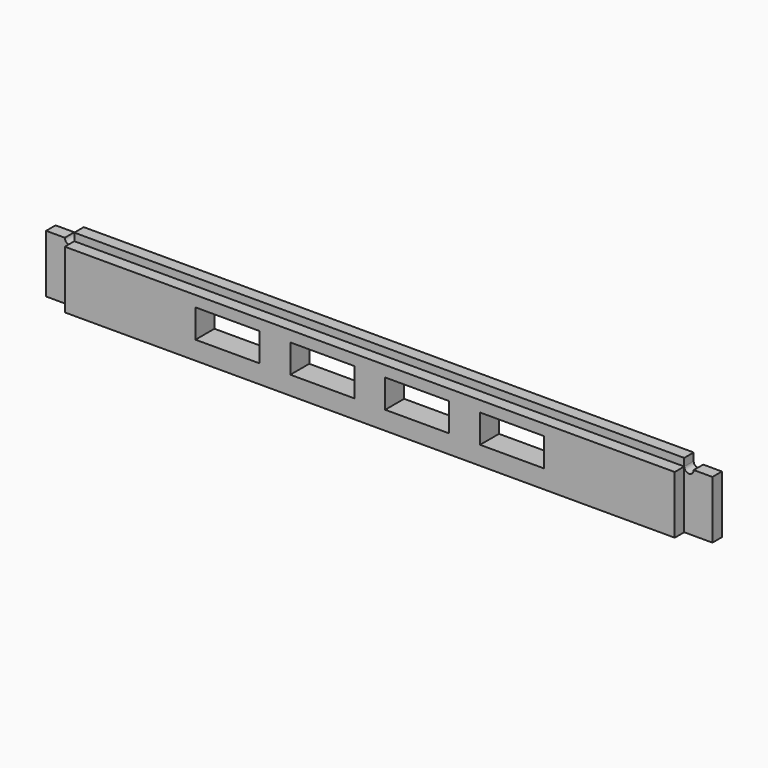
from build123d import *

# Parameters (mm, degrees)
F0_W     = 128.6
F0_H     = 12.2
F0_W_2   = 13.5
F0_H_2   = 6
F1_DEPTH = 5
F0_H_3   = 1.6
F2_DEPTH = 2.5


with BuildPart() as f1:
    # F0 (on Front) → F1 (new body)
    with BuildSketch(Plane.XZ):
        with Locations((0, -0.8)):
            Rectangle(F0_W, F0_H)
        with Locations((-30, 0)):
            Rectangle(F0_W_2, F0_H_2, mode=Mode.SUBTRACT)
        with Locations((-10, 0)):
            Rectangle(F0_W_2, F0_H_2, mode=Mode.SUBTRACT)
        with Locations((10, 0)):
            Rectangle(F0_W_2, F0_H_2, mode=Mode.SUBTRACT)
        with Locations((30, 0)):
            Rectangle(F0_W_2, F0_H_2, mode=Mode.SUBTRACT)
    extrude(amount=F1_DEPTH)

    # F0 (on Front) → F2 (join)
    with BuildSketch(Plane.XZ):
        with BuildLine():
            Line((-64.3, -6.9), (-64.3, 5.3))
            ThreePointArc((-64.3, 5.3), (-65.3, 4.3), (-66.3, 5.3))
            Line((-66.3, 5.3), (-70.25, 5.3))
            Line((-70.25, 5.3), (-70.25, -6.9))
            Line((-70.25, -6.9), (-64.3, -6.9))
        make_face()
        with Locations((0, 6.1)):
            Rectangle(F0_W, F0_H_3)
        with BuildLine():
            ThreePointArc((66.3, 5.3), (65.3, 4.3), (64.3, 5.3))
            Line((64.3, 5.3), (64.3, -6.9))
            Line((64.3, -6.9), (70.25, -6.9))
            Line((70.25, -6.9), (70.25, 5.3))
            Line((70.25, 5.3), (66.3, 5.3))
        make_face()
    extrude(amount=F2_DEPTH)


solid = f1.part
